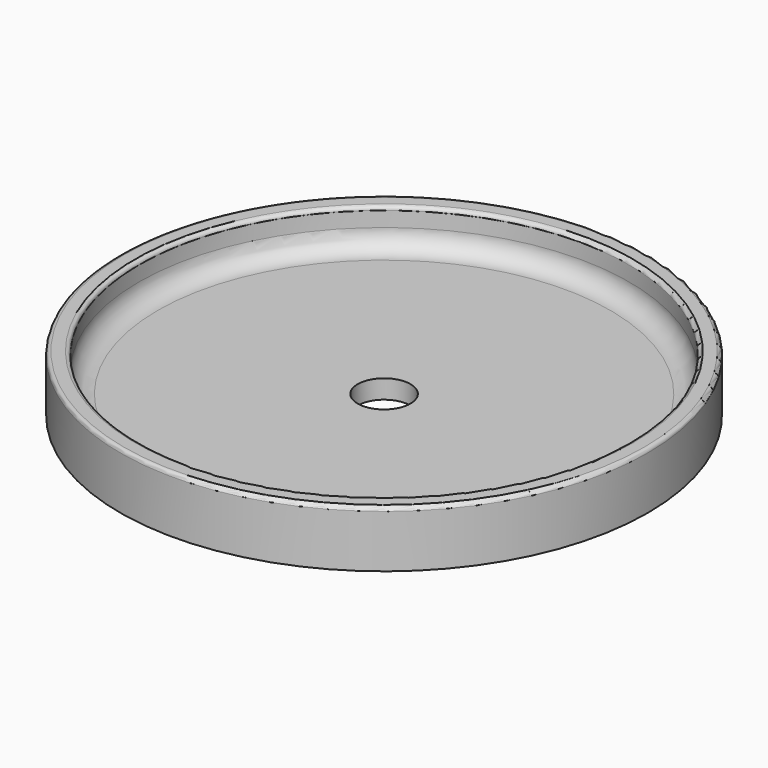
from build123d import *

# Parameters (mm, degrees)
F2_R     = 7
F3_DEPTH = 25


with BuildPart() as f1:
    # F0 (on Front) → F1 (revolve)
    with BuildSketch(Plane.XZ):
        with BuildLine():
            Line((0, 5), (0, 0))
            Line((0, 0), (70, 0))
            Line((70, 0), (70, 14))
            ThreePointArc((70, 14), (69.707107, 14.707107), (69, 15))
            Line((69, 15), (66, 15))
            ThreePointArc((66, 15), (65.292893, 14.707107), (65, 14))
            Line((65, 14), (65, 10))
            ThreePointArc((65, 10), (63.535534, 6.464466), (60, 5))
            Line((60, 5), (0, 5))
        make_face()
    revolve(axis=Axis((0, 0, 10.200065), (0, 0, 1)))

    # F2 (on face) → F3 (cut)
    with BuildSketch(Plane.XY.offset(5)):
        Circle(F2_R)
    extrude(amount=-F3_DEPTH, mode=Mode.SUBTRACT)


solid = f1.part
